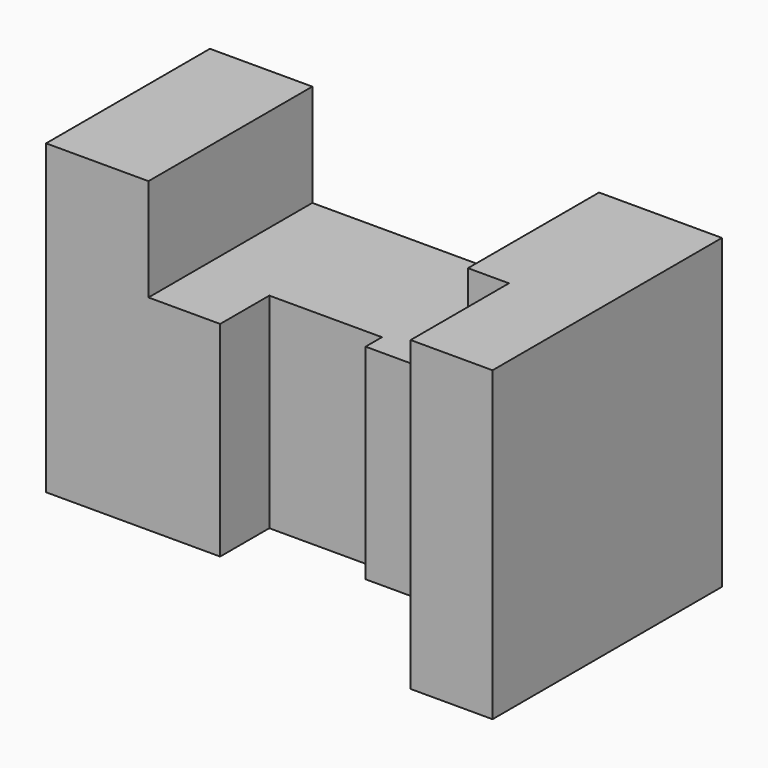
from build123d import *

# Parameters (mm, degrees)
F0_W     = 25
F0_H     = 75
F1_DEPTH = 50
F2_W     = 27.5
F2_H     = 35
F3_DEPTH = 50
F4_W     = 10
F4_H     = 40
F5_DEPTH = 75


with BuildPart() as f1:
    # F0 (on Front) → F1 (new body)
    with BuildSketch(Plane.XZ):
        with Locations((12.5, 37.5)):
            Rectangle(F0_W, F0_H)
    extrude(amount=F1_DEPTH)

    # F2 (on face) → F3 (join)
    with BuildSketch(Plane(origin=(0, 0, 0), x_dir=(1, 0, 0), z_dir=(0, 0, -1))):
        Polygon((25, 50), (25, 0), (42.5, 0), (42.5, 35), (42.5, 50), align=None)
        with Locations((56.25, 17.5)):
            Rectangle(F2_W, F2_H)
        Polygon((70, 35), (70, 0), (95, 0), (95, 40), (70, 40), align=None)
    extrude(amount=-F3_DEPTH)

    # F4 (on face) → F5 (join)
    with BuildSketch(Plane(origin=(0, 0, 0), x_dir=(1, 0, 0), z_dir=(0, 0, -1))):
        with Locations((100, 20)):
            Rectangle(F4_W, F4_H)
        Polygon((105, 40), (105, 0), (125, 0), (125, 70), (105, 70), align=None)
    extrude(amount=-F5_DEPTH)


solid = f1.part
